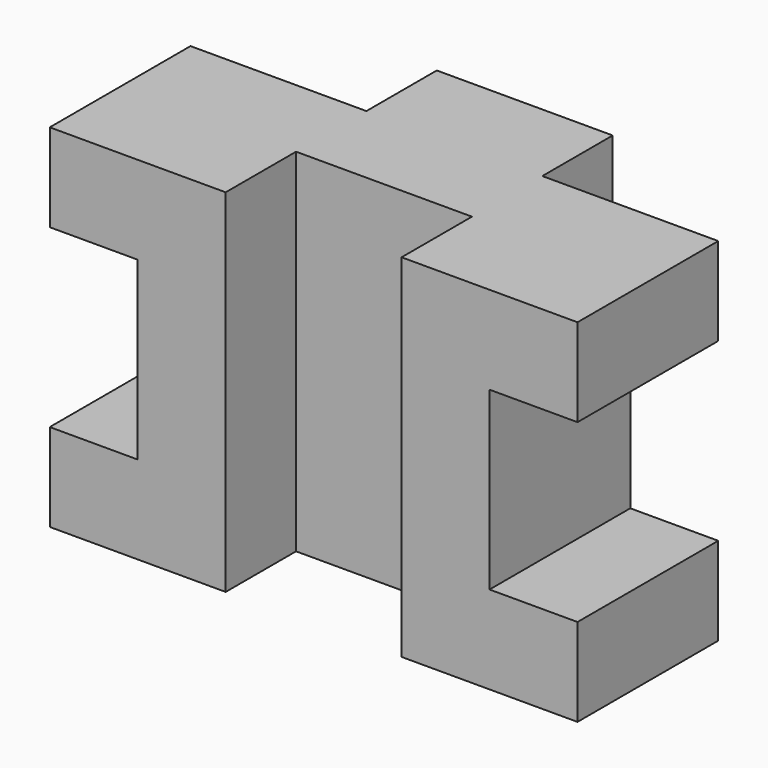
from build123d import *

# Parameters (mm, degrees)
PAD_DEPTH    = 40
SKETCH002_W  = 10
SKETCH002_H  = 20
POCKET_DEPTH = 20


with BuildPart() as part:
    # Sketch → Pad (new body)
    with BuildSketch(Plane.XY):
        Polygon((0, 0), (0, 20), (20, 20), (20, 30), (40, 30), (40, 20), (60, 20), (60, 0), (40, 0), (40, 10), (20, 10), (20, 0), align=None)
    extrude(amount=PAD_DEPTH)

    # Sketch002 (on Face8 of Pad) → Pocket (cut)
    with BuildSketch(Plane.XZ):
        with Locations((5, 20)):
            Rectangle(SKETCH002_W, SKETCH002_H)
        with Locations((55, 20)):
            Rectangle(SKETCH002_W, SKETCH002_H)
    extrude(amount=-POCKET_DEPTH, mode=Mode.SUBTRACT)


solid = part.part
